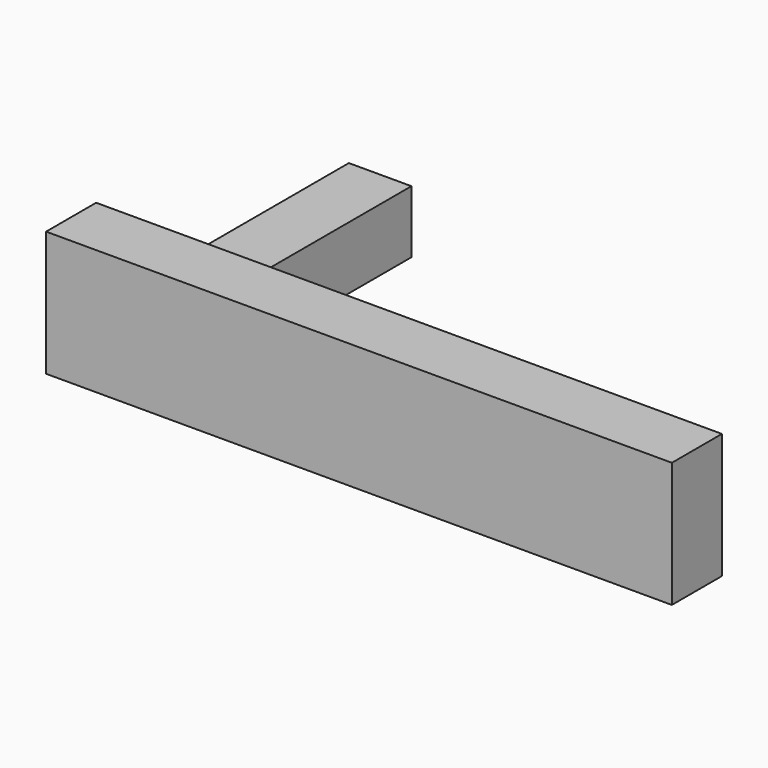
from build123d import *

# Parameters (mm, degrees)
F0_W     = 20
F0_H     = 20
F1_DEPTH = 100
F2_W     = 20
F2_H     = 40
F3_DEPTH = 200


with BuildPart() as f1:
    # F0 (on Front) → F1 (new body)
    with BuildSketch(Plane.XZ):
        with Locations((10, 10)):
            Rectangle(F0_W, F0_H)
    extrude(amount=F1_DEPTH)


with BuildPart() as f3:
    # F2 (on Right) → F3 (new body)
    with BuildSketch(Plane.YZ):
        with Locations((-110.956088, 29.875441)):
            Rectangle(F2_W, F2_H)
    extrude(amount=F3_DEPTH)


solid = Compound([f1.part, f3.part])
